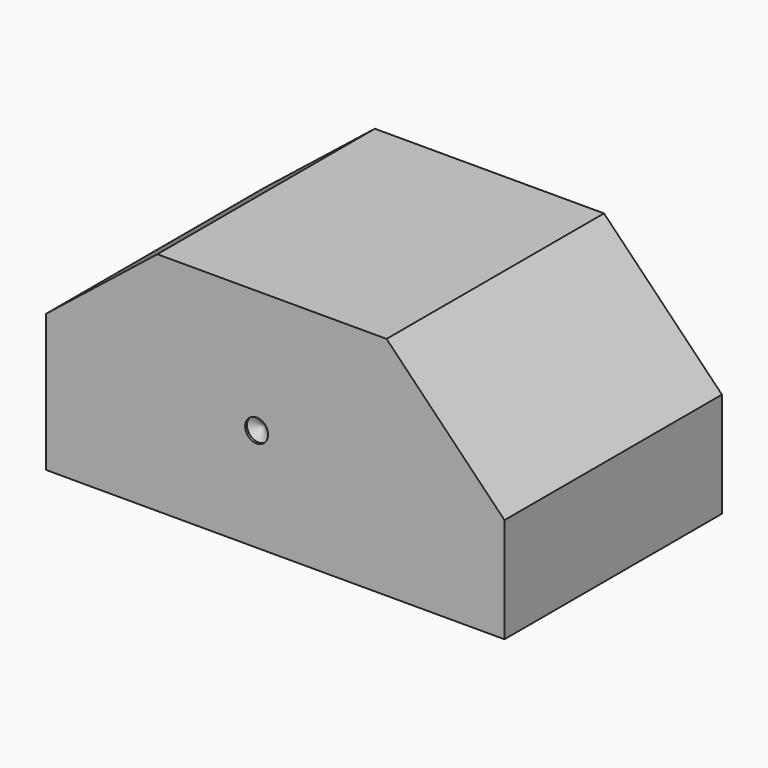
from build123d import *

# Parameters (mm, degrees)
F1_DEPTH = 1506.22
F3_D     = 127
F3_DEPTH = 12.7
F3_TIP   = 38.1546493083


with BuildPart() as f1:
    # F0 (on Front) → F1 (new body)
    with BuildSketch(Plane.XZ):
        Polygon((-770.6423540949, 613.970125735), (-1387.3124781203, 122.9907713829), (-1387.3124781203, -639.0092286171), (1152.6875218797, -639.0092286171), (1152.6875218797, -57.6896484572), (499.3576459051, 613.970125735), align=None)
    extrude(amount=F1_DEPTH)

    # F3
    with Locations(Plane.XZ.offset(1506.22)):
        with Locations((-220.6445932388, -67.0729279518)):
            Hole(F3_D / 2, depth=F3_DEPTH)
            with Locations((0, 0, -(F3_DEPTH + F3_TIP / 2))):  # 118° drill point
                Cone(0, F3_D / 2, F3_TIP, mode=Mode.SUBTRACT)


solid = f1.part
